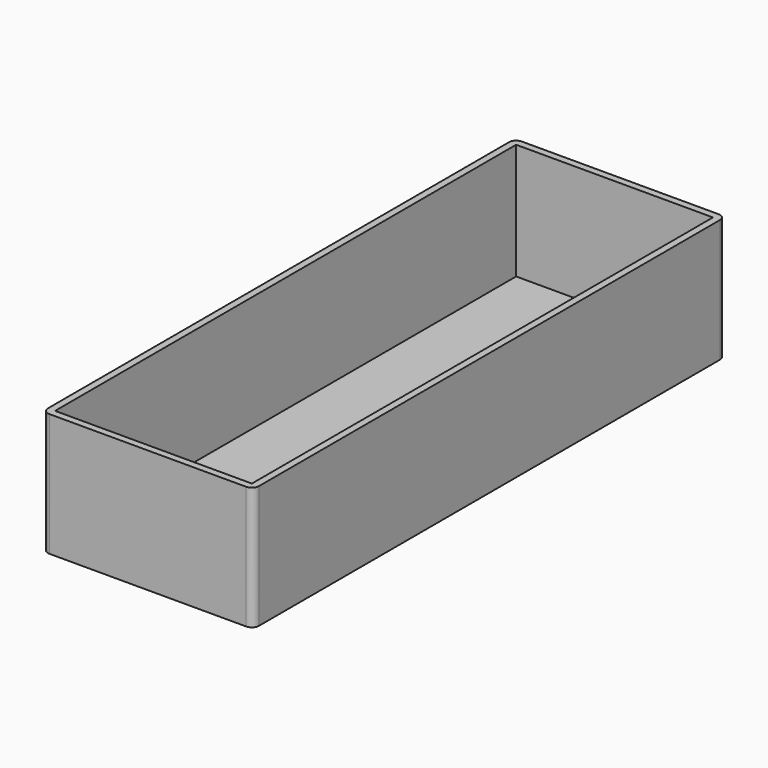
from build123d import *

# Parameters (mm, degrees)
F0_W     = 76.2
F0_H     = 213.36
F1_DEPTH = 44.45
F2_T     = -2.54
F3_R     = 2.54


with BuildPart() as f1:
    # F0 (on Top) → F1 (new body)
    with BuildSketch(Plane.XY):
        with Locations((38.1, 106.68)):
            Rectangle(F0_W, F0_H)
    extrude(amount=F1_DEPTH)

    # F2
    f2_openings = [f1.faces().sort_by_distance(p)[0] for p in [
        (38.1, 106.68, 44.45),
    ]]
    offset(amount=F2_T, openings=f2_openings)

    # F3
    f3_edges = [f1.edges().sort_by_distance(p)[0] for p in [
        (0, 0, 22.225),
        (76.2, 0, 22.225),
        (76.2, 213.36, 22.225),
        (0, 213.36, 22.225),
    ]]
    fillet(f3_edges, radius=F3_R)


solid = f1.part
